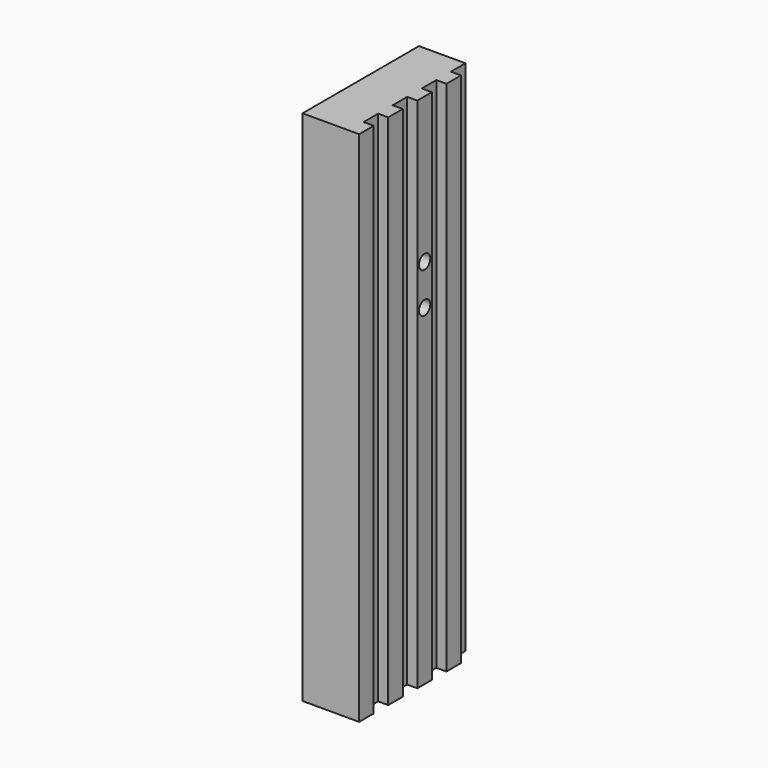
from build123d import *

# Parameters (mm, degrees)
F1_DEPTH = 203.2
F2_R     = 5.55625
F3_DEPTH = 44.451
F4_R     = 9.525
F5_DEPTH = 76.2


with BuildPart() as f1:
    # F0 (on Top) → F1 (new body, symmetric)
    with BuildSketch(Plane.XY):
        Polygon((14.2875, 57.15), (-22.225, 57.15), (-22.225, -57.15), (22.225, -57.15), (22.225, -42.8625), (14.2875, -42.8625), (14.2875, -28.575), (22.225, -28.575), (22.225, -14.2875), (14.2875, -14.2875), (14.2875, 0), (22.225, 0), (22.225, 14.2875), (14.2875, 14.2875), (14.2875, 28.575), (22.225, 28.575), (22.225, 42.8625), (14.2875, 42.8625), align=None)
    extrude(amount=F1_DEPTH, both=True)

    # F2 (on face) → F3 (cut, through all)
    with BuildSketch(Plane.YZ.offset(22.225)):
        with Locations((7.14375, 88.9)):
            Circle(F2_R)
        with Locations((7.14375, 57.15)):
            Circle(F2_R)
    extrude(amount=-F3_DEPTH, mode=Mode.SUBTRACT)

    # F4 (on face) → F5 (cut)
    with BuildSketch(Plane(origin=(0, 0, -203.2), x_dir=(1, 0, 0), z_dir=(0, 0, -1))):
        with Locations((-3.175, 38.1)):
            Circle(F4_R)
        with Locations((-3.175, -38.1)):
            Circle(F4_R)
    extrude(amount=-F5_DEPTH, mode=Mode.SUBTRACT)


solid = f1.part
